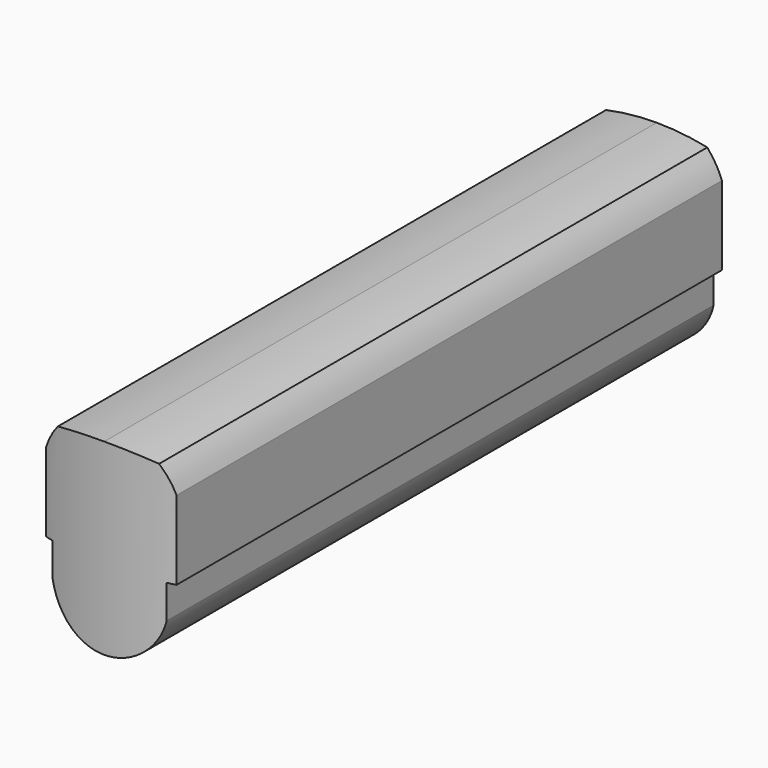
from build123d import *

# Parameters (mm, degrees)
F1_DEPTH = 143.7894
F3_DEPTH = 143.7904
F5_DEPTH = 38.1


with BuildPart() as f1:
    # F0 (on Front) → F1 (new body)
    with BuildSketch(Plane.XZ):
        with BuildLine():
            Line((13.589, 10.3759), (-13.589, 10.3759))
            Line((-13.589, 10.3759), (-13.589, -12.2301))
            Line((-13.589, -12.2301), (-11.8745, -12.2301))
            Line((-11.8745, -12.2301), (-11.8745, -19.2151))
            ThreePointArc((-11.8745, -19.2151), (0, -28.7401), (11.8745, -19.2151))
            Line((11.8745, -19.2151), (11.8745, -12.2301))
            Line((11.8745, -12.2301), (13.589, -12.2301))
            Line((13.589, -12.2301), (13.589, 10.3759))
        make_face()
        with BuildLine():
            Line((13.589, 10.3759), (-13.589, 10.3759))
            Line((-13.589, 10.3759), (-13.589, -12.2301))
            Line((-13.589, -12.2301), (-11.8745, -12.2301))
            Line((-11.8745, -12.2301), (-11.8745, -19.2151))
            ThreePointArc((-11.8745, -19.2151), (0, -28.7401), (11.8745, -19.2151))
            Line((11.8745, -19.2151), (11.8745, -12.2301))
            Line((11.8745, -12.2301), (13.589, -12.2301))
            Line((13.589, -12.2301), (13.589, 10.3759))
        make_face()
    extrude(amount=-F1_DEPTH)

    # F2 (on face) → F3 (cut, through all)
    with BuildSketch(Plane.XZ):
        with BuildLine():
            ThreePointArc((-10.541, 9.270239), (-5.299414, 10.098729), (0, 10.3759))
            ThreePointArc((0, 10.3759), (5.299414, 10.098729), (10.541, 9.270239))
            ThreePointArc((10.541, 9.270239), (12.298376, 6.870264), (13.589, 4.190239))
            Line((13.589, 4.190239), (13.589, 18.64491))
            Line((13.589, 18.64491), (-13.877228, 18.64491))
            Line((-13.877228, 18.64491), (-13.589, 4.190239))
            ThreePointArc((-13.589, 4.190239), (-12.298376, 6.870264), (-10.541, 9.270239))
        make_face()
    extrude(amount=-F3_DEPTH, mode=Mode.SUBTRACT)

    # F4 (on Top) → F5 (cut, symmetric)
    with BuildSketch(Plane.XY):
        with BuildLine():
            ThreePointArc((13.589, 1.851261), (0, 0), (-13.589, 1.851261))
            Line((-13.589, 1.851261), (-13.589, -7.918205))
            Line((-13.589, -7.918205), (13.589, -7.918205))
            Line((13.589, -7.918205), (13.589, 1.851261))
        make_face()
    extrude(amount=F5_DEPTH, both=True, mode=Mode.SUBTRACT)


solid = f1.part
